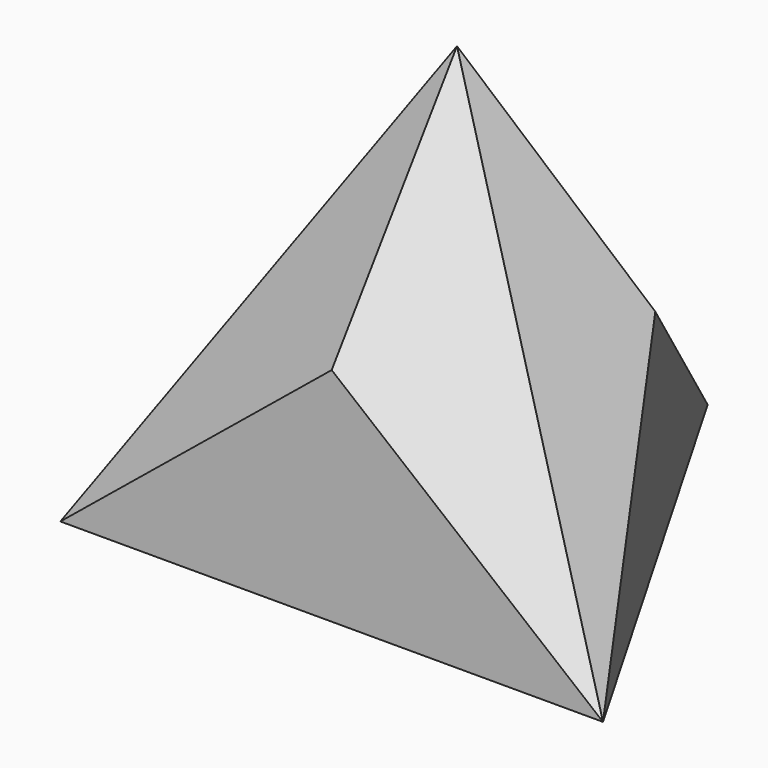
from build123d import *

# Parameters (mm, degrees)
F1_DEPTH = 81.6496580928
F5_DEPTH = 100
F6_DEPTH = 100
F7_DEPTH = 100


with BuildPart() as f1:
    # F0 (on Top) → F1 (new body)
    with BuildSketch(Plane.XY):
        Polygon((-25, 0), (25, 0), (0, 43.3012701892), align=None)
        Polygon((-25, 0), (0, -43.3012701892), (25, 0), align=None)
        Polygon((-50, -43.3012701892), (0, -43.3012701892), (-25, 0), align=None)
        Polygon((0, -43.3012701892), (50, -43.3012701892), (25, 0), align=None)
    extrude(amount=F1_DEPTH)

    # F4 (on face) → F5 (cut)
    with BuildSketch(Plane(origin=(-18.75, 10.8253175473, 0), x_dir=(-0.5, -0.8660254038, 0), z_dir=(-0.8660254038, 0.5, 0))):
        Polygon((-37.5, 81.6496580928), (-37.5, 0), (12.5, 81.6496580928), align=None)
        Polygon((62.5, 81.6496580928), (12.5, 81.6496580928), (62.5, 0), align=None)
    extrude(amount=-F5_DEPTH, mode=Mode.SUBTRACT)

    # F2 (on face) → F6 (cut)
    with BuildSketch(Plane.XZ.offset(43.3012701892)):
        Polygon((-50, 81.6496580928), (-50, 0), (0, 81.6496580928), align=None)
        Polygon((50, 81.6496580928), (0, 81.6496580928), (50, 0), align=None)
    extrude(amount=-F6_DEPTH, mode=Mode.SUBTRACT)

    # F3 (on face) → F7 (cut)
    with BuildSketch(Plane(origin=(18.75, 10.8253175473, 0), x_dir=(-0.5, 0.8660254038, 0), z_dir=(0.8660254038, 0.5, 0))):
        Polygon((-62.5, 81.6496580928), (-62.5, 0), (-12.5, 81.6496580928), align=None)
        Polygon((37.5, 81.6496580928), (-12.5, 81.6496580928), (37.5, 0), align=None)
    extrude(amount=-F7_DEPTH, mode=Mode.SUBTRACT)


solid = f1.part
